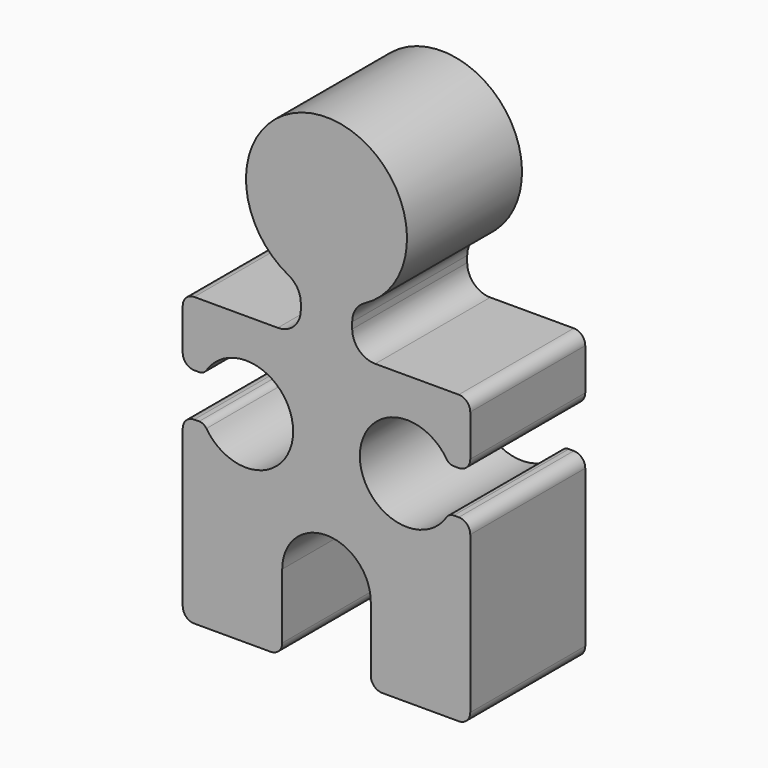
from build123d import *

# Parameters (mm, degrees)
F1_DEPTH = 25


with BuildPart() as f1:
    # F0 (on Front) → F1 (new body)
    with BuildSketch(Plane.XZ):
        with BuildLine():
            ThreePointArc((-43.225659, -21.785345), (-42.639873, -23.199559), (-41.225659, -23.785345))
            Line((-41.225659, -23.785345), (-27.925659, -23.785345))
            ThreePointArc((-27.925659, -23.785345), (-26.511446, -23.199559), (-25.925659, -21.785345))
            Line((-25.925659, -21.785345), (-25.925659, -10.485345))
            ThreePointArc((-25.925659, -10.485345), (-18.225659, -2.785345), (-10.525659, -10.485345))
            Line((-10.525659, -10.485345), (-10.525659, -21.785345))
            ThreePointArc((-10.525659, -21.785345), (-9.939873, -23.199559), (-8.525659, -23.785345))
            Line((-8.525659, -23.785345), (4.774341, -23.785345))
            ThreePointArc((4.774341, -23.785345), (6.188554, -23.199559), (6.774341, -21.785345))
            Line((6.774341, -21.785345), (6.774341, 5.442917))
            ThreePointArc((6.774341, 5.442917), (6.188554, 6.857131), (4.774341, 7.442917))
            Line((4.774341, 7.442917), (3.916746, 7.442917))
            ThreePointArc((3.916746, 7.442917), (3.200096, 7.260647), (2.65761, 6.758134))
            ThreePointArc((2.65761, 6.758134), (-12.425658, 11.214655), (2.65761, 15.671176))
            ThreePointArc((2.65761, 15.671176), (3.200096, 15.168663), (3.916746, 14.986393))
            Line((3.916746, 14.986393), (4.774341, 14.986393))
            ThreePointArc((4.774341, 14.986393), (6.188554, 15.572179), (6.774341, 16.986393))
            Line((6.774341, 16.986393), (6.774341, 24.214655))
            ThreePointArc((6.774341, 24.214655), (6.188554, 25.628869), (4.774341, 26.214655))
            Line((4.774341, 26.214655), (-9.755071, 26.214655))
            ThreePointArc((-9.755071, 26.214655), (-12.583498, 27.386228), (-13.755071, 30.214655))
            Line((-13.755071, 30.214655), (-13.755071, 31.332302))
            ThreePointArc((-13.755071, 31.332302), (-13.185043, 33.390285), (-11.637424, 34.861714))
            ThreePointArc((-11.637424, 34.861714), (-18.225659, 61.214655), (-24.813894, 34.861714))
            ThreePointArc((-24.813894, 34.861714), (-23.266276, 33.390285), (-22.696247, 31.332302))
            Line((-22.696247, 31.332302), (-22.696247, 30.214655))
            ThreePointArc((-22.696247, 30.214655), (-23.86782, 27.386228), (-26.696247, 26.214655))
            Line((-26.696247, 26.214655), (-41.225659, 26.214655))
            ThreePointArc((-41.225659, 26.214655), (-42.639873, 25.628869), (-43.225659, 24.214655))
            Line((-43.225659, 24.214655), (-43.225659, 16.986393))
            ThreePointArc((-43.225659, 16.986393), (-42.639873, 15.572179), (-41.225659, 14.986393))
            Line((-41.225659, 14.986393), (-40.368065, 14.986393))
            ThreePointArc((-40.368065, 14.986393), (-39.651414, 15.168663), (-39.108929, 15.671176))
            ThreePointArc((-39.108929, 15.671176), (-24.02566, 11.214655), (-39.108929, 6.758134))
            ThreePointArc((-39.108929, 6.758134), (-39.651414, 7.260647), (-40.368065, 7.442917))
            Line((-40.368065, 7.442917), (-41.225659, 7.442917))
            ThreePointArc((-41.225659, 7.442917), (-42.639873, 6.857131), (-43.225659, 5.442917))
            Line((-43.225659, 5.442917), (-43.225659, -21.785345))
        make_face()
    extrude(amount=F1_DEPTH)


solid = f1.part
